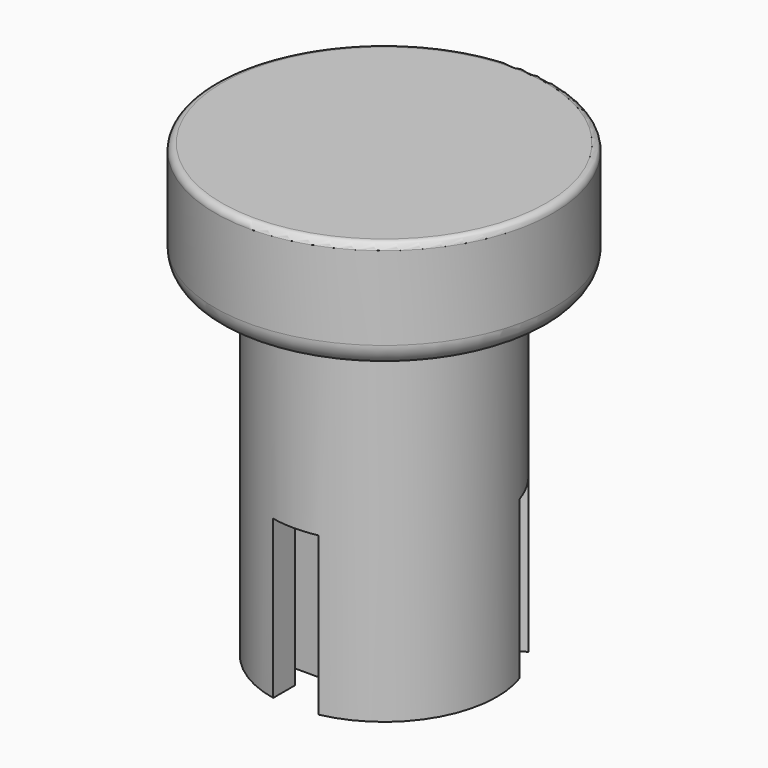
from build123d import *

# Parameters (mm, degrees)
F0_R     = 9.525
F1_DEPTH = 6.35
F2_R     = 6.35
F3_DEPTH = 19.05
F5_DEPTH = 8.89
F6_R     = 1.27
F7_R     = 0.381


with BuildPart() as f1:
    # F0 (on Top) → F1 (new body)
    with BuildSketch(Plane.XY):
        Circle(F0_R)
    extrude(amount=F1_DEPTH)

    # F2 (on face) → F3 (join)
    with BuildSketch(Plane(origin=(0, 0, 0), x_dir=(1, 0, 0), z_dir=(0, 0, -1))):
        Circle(F2_R)
    extrude(amount=F3_DEPTH)

    # F4 (on face) → F5 (cut)
    with BuildSketch(Plane(origin=(0, 0, -19.05), x_dir=(1, 0, 0), z_dir=(0, 0, -1))):
        with BuildLine():
            ThreePointArc((1.27, 6.2217039467), (0.6382319087, 6.3178445716), (0, 6.35))
            ThreePointArc((0, 6.35), (-0.6382319087, 6.3178445716), (-1.27, 6.2217039467))
            Line((-1.27, 6.2217039467), (-1.27, 4.699))
            Line((-1.27, 4.699), (-2.286, 3.429))
            Line((-2.286, 3.429), (1.27, 3.429))
            Line((1.27, 3.429), (2.032, 3.429))
            Line((2.032, 3.429), (1.27, 4.191))
            Line((1.27, 4.191), (1.27, 6.2217039467))
        make_face()
        with BuildLine():
            Line((-4.2645124673, -0.9956477372), (-6.0231536726, -2.0109997105))
            ThreePointArc((-6.0231536726, -2.0109997105), (-5.7905298505, -2.6061972393), (-5.499261314, -3.175))
            ThreePointArc((-5.499261314, -3.175), (-5.1522979418, -3.7116473323), (-4.7531536726, -4.2107042361))
            Line((-4.7531536726, -4.2107042361), (-3.4344533724, -3.4493522628))
            Line((-3.4344533724, -3.4493522628), (-1.8266011096, -3.6942340731))
            Line((-1.8266011096, -3.6942340731), (-3.9856011096, 0.0452636205))
            Line((-3.9856011096, 0.0452636205), (-4.2645124673, -0.9956477372))
        make_face()
        with BuildLine():
            ThreePointArc((5.499261314, -3.175), (5.7905298505, -2.6061972393), (6.0231536726, -2.0109997105))
            Line((6.0231536726, -2.0109997105), (4.7044533724, -1.2496477372))
            Line((4.7044533724, -1.2496477372), (4.1126011096, 0.2652340731))
            Line((4.1126011096, 0.2652340731), (1.9536011096, -3.4742636205))
            Line((1.9536011096, -3.4742636205), (2.9945124673, -3.1953522628))
            Line((2.9945124673, -3.1953522628), (4.7531536726, -4.2107042361))
            ThreePointArc((4.7531536726, -4.2107042361), (5.1522979418, -3.7116473323), (5.499261314, -3.175))
        make_face()
    extrude(amount=-F5_DEPTH, mode=Mode.SUBTRACT)

    # F6
    f6_edges = [f1.edges().sort_by_distance(p)[0] for p in [
        (-9.525, 0, 0),
    ]]
    fillet(f6_edges, radius=F6_R)

    # F7
    f7_edges = [f1.edges().sort_by_distance(p)[0] for p in [
        (-9.525, 0, 6.35),
    ]]
    fillet(f7_edges, radius=F7_R)


solid = f1.part
